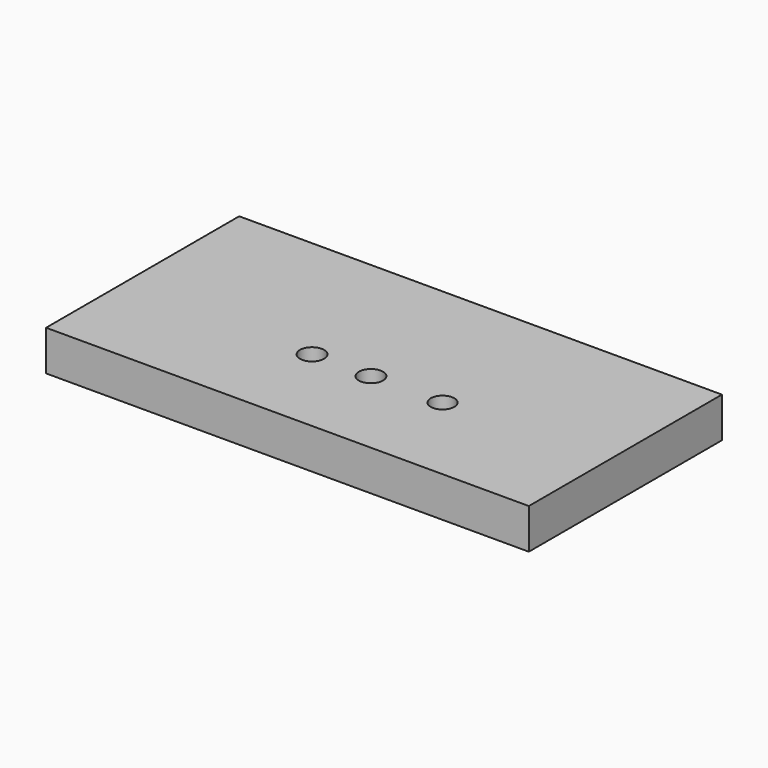
from build123d import *

# Parameters (mm, degrees)
F0_W     = 152.4
F0_H     = 76.2
F1_DEPTH = 12.7
F2_R     = 3.81
F3_DEPTH = 25.4
F4_R     = 3.81
F4_R_2   = 3.716512
F5_DEPTH = 12.701


with BuildPart() as f1:
    # F0 (on Top) → F1 (new body)
    with BuildSketch(Plane.XY):
        with Locations((16.127278, 8.251033)):
            Rectangle(F0_W, F0_H)
    extrude(amount=F1_DEPTH)

    # F2 (on face) → F3 (cut)
    with BuildSketch(Plane.XY.offset(12.7)):
        Circle(F2_R)
    extrude(amount=-F3_DEPTH, mode=Mode.SUBTRACT)

    # F4 (on face) → F5 (cut, through all)
    with BuildSketch(Plane.XY.offset(12.7)):
        with Locations((18.605455, 0)):
            Circle(F4_R)
        with Locations((41.206335, 0)):
            Circle(F4_R_2)
    extrude(amount=-F5_DEPTH, mode=Mode.SUBTRACT)


solid = f1.part
